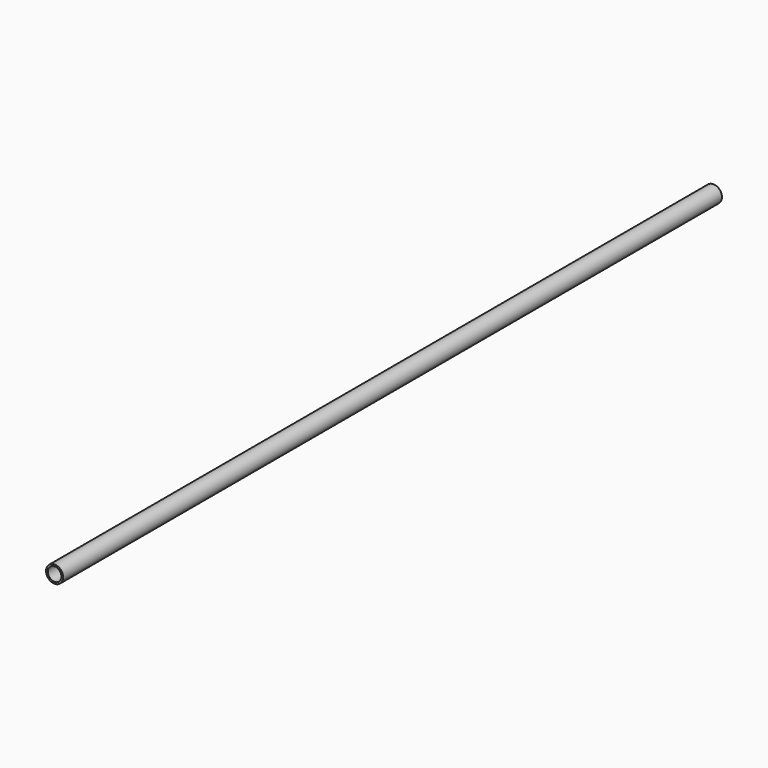
from build123d import *

# Parameters (mm, degrees)
CYLINDER_R          = 16.7005
CYLINDER_DEPTH      = 1609.72
CYLINDER_ROLL_ANGLE = 90
THICKNESS001_T      = -3.3782


with BuildPart() as part:
    # Cylinder → Cylinder (new body)
    with BuildSketch(Plane.XY):
        Circle(CYLINDER_R)
    extrude(amount=CYLINDER_DEPTH)


with BuildPart() as part_1:
    # Cylinder roll: moved
    add(part.part.rotate(Axis((0, 0, 0), (1, 0, 0)), CYLINDER_ROLL_ANGLE))


with BuildPart() as part_2:
    # Cylinder placement: moved
    add(part_1.part)

    # Thickness001
    thickness001_openings = [part_2.faces().sort_by_distance(p)[0] for p in [
        (0, 0, 0),
        (0, -1609.72, 0),
    ]]
    offset(amount=THICKNESS001_T, openings=thickness001_openings)


solid = part_2.part
